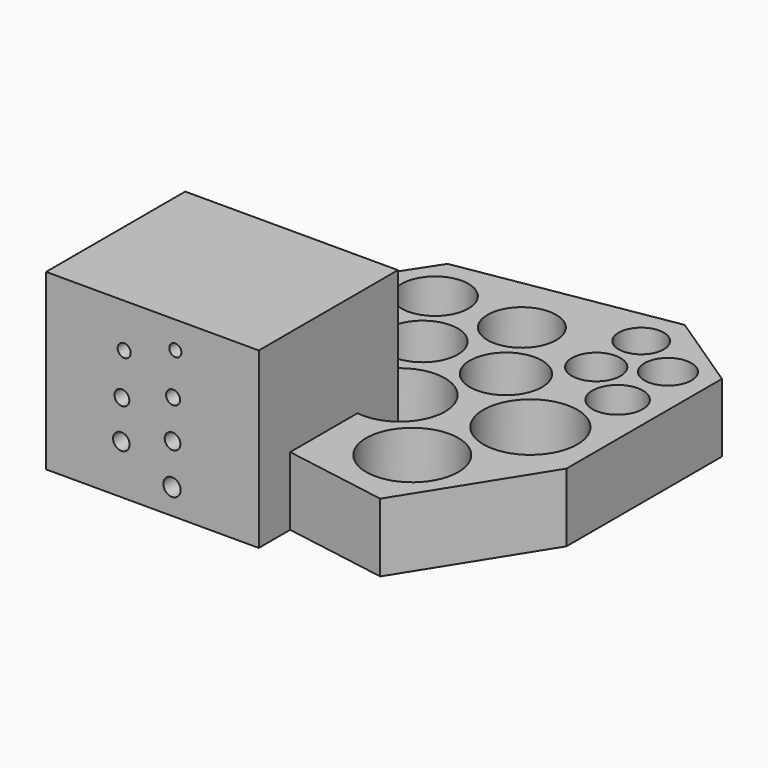
from build123d import *

# Parameters (mm, degrees)
F0_R     = 6.477
F0_R_2   = 2.0955
F0_R_3   = 6.604
F0_R_4   = 6.731
F0_R_5   = 6.858
F0_R_6   = 1.9685
F0_R_7   = 1.8415
F0_R_8   = 1.7145
F0_R_9   = 5.1435
F0_R_10  = 4.8895
F0_R_11  = 5.0165
F0_R_12  = 5.2705
F0_R_13  = 3.556
F0_R_14  = 3.683
F0_R_15  = 3.302
F0_R_16  = 3.429
F1_DEPTH = 10
F2_W     = 31.066153
F2_H     = 25.4
F2_R     = 1.2065
F2_R_2   = 1.27
F2_R_3   = 1.143
F2_R_4   = 1.0795
F2_R_5   = 0.9525
F2_R_6   = 1.016
F2_R_7   = 0.889
F3_DEPTH = 25.4


with BuildPart() as f1:
    # F0 (on Top) → F1 (new body)
    with BuildSketch(Plane.XY):
        Polygon((-9.755744, 27.850911), (-17.044356, 16.685376), (-15.338511, -16.190922), (20.484246, -22.23892), (32.425169, -3.164464), (32.425169, 25.214603), (20.794399, 32.96845), align=None)
        with Locations((-6.809283, -8.437078)):
            Circle(F0_R, mode=Mode.SUBTRACT)
        with Locations((-8.936937, 1.653538)):
            Circle(F0_R_2, mode=Mode.SUBTRACT)
        with Locations((6.217177, -0.83831)):
            Circle(F0_R_3, mode=Mode.SUBTRACT)
        with Locations((16.607326, -11.538615)):
            Circle(F0_R_4, mode=Mode.SUBTRACT)
        with Locations((22.8104, 2.263227)):
            Circle(F0_R_5, mode=Mode.SUBTRACT)
        with Locations((-12.768192, 6.093469)):
            Circle(F0_R_6, mode=Mode.SUBTRACT)
        with Locations((-8.693385, 10.635814)):
            Circle(F0_R_7, mode=Mode.SUBTRACT)
        with Locations((-12.585197, 14.438136)):
            Circle(F0_R_8, mode=Mode.SUBTRACT)
        with Locations((0, 11.102608)):
            Circle(F0_R_9, mode=Mode.SUBTRACT)
        with Locations((-5.878822, 20.717375)):
            Circle(F0_R_10, mode=Mode.SUBTRACT)
        with Locations((6.682404, 20.872451)):
            Circle(F0_R_11, mode=Mode.SUBTRACT)
        with Locations((12.420249, 10.792454)):
            Circle(F0_R_12, mode=Mode.SUBTRACT)
        with Locations((19.398708, 18.546299)):
            Circle(F0_R_13, mode=Mode.SUBTRACT)
        with Locations((26.377169, 13.738916)):
            Circle(F0_R_14, mode=Mode.SUBTRACT)
        with Locations((19.398708, 26.765374)):
            Circle(F0_R_15, mode=Mode.SUBTRACT)
        with Locations((26.532244, 22.733374)):
            Circle(F0_R_16, mode=Mode.SUBTRACT)
    extrude(amount=F1_DEPTH)


with BuildPart() as f3:
    # F2 (on Front) → F3 (new body)
    with BuildSketch(Plane.XZ):
        with Locations((-10.257691, 12.7)):
            Rectangle(F2_W, F2_H)
        with Locations((-14.798059, 7.158136)):
            Circle(F2_R, mode=Mode.SUBTRACT)
        with Locations((-7.404639, 3.707875)):
            Circle(F2_R_2, mode=Mode.SUBTRACT)
        with Locations((-7.32249, 9.622611)):
            Circle(F2_R_3, mode=Mode.SUBTRACT)
        with Locations((-14.71591, 12.826424)):
            Circle(F2_R_4, mode=Mode.SUBTRACT)
        with Locations((-14.387313, 18.987609)):
            Circle(F2_R_5, mode=Mode.SUBTRACT)
        with Locations((-7.24034, 15.290899)):
            Circle(F2_R_6, mode=Mode.SUBTRACT)
        with Locations((-6.911744, 21.452084)):
            Circle(F2_R_7, mode=Mode.SUBTRACT)
    extrude(amount=F3_DEPTH)


solid = Compound([f1.part, f3.part])
